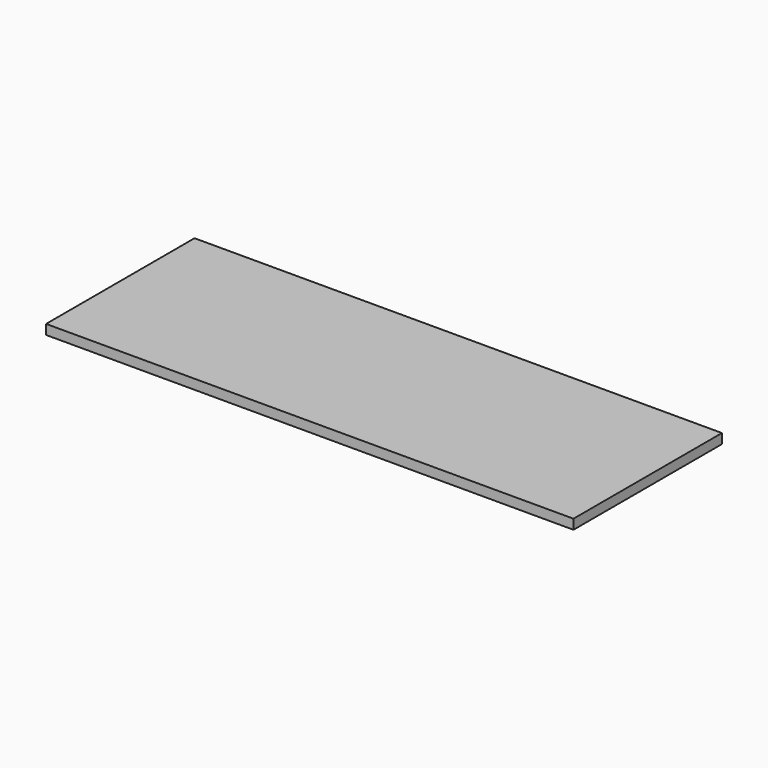
from build123d import *

# Parameters (mm, degrees)
SKETCH003_W         = 216
SKETCH003_H         = 76
SKETCH003_W_2       = 200
SKETCH003_H_2       = 60
PAD_DEPTH           = 4
SKETCH_W            = 20
SKETCH_H            = 60
PAD001_DEPTH        = 4
LINEARPATTERN_COUNT = 10
LINEARPATTERN_PITCH = 20


with BuildPart() as part:
    # Sketch003 → Pad (new body)
    with BuildSketch(Plane.XY):
        Rectangle(SKETCH003_W, SKETCH003_H)
        Rectangle(SKETCH003_W_2, SKETCH003_H_2, mode=Mode.SUBTRACT)
    extrude(amount=PAD_DEPTH)

    # Sketch (on Face10 of Pad) → Pad001 (join)
    with BuildSketch(Plane.XY.offset(4)):
        with Locations((-90, 0)):
            Rectangle(SKETCH_W, SKETCH_H)
    pad001 = extrude(amount=-PAD001_DEPTH)

    # LinearPattern: Pad001 ×10
    with Locations(*[(i * LINEARPATTERN_PITCH, 0, 0) for i in range(1, LINEARPATTERN_COUNT)]):
        add(pad001)


solid = part.part
